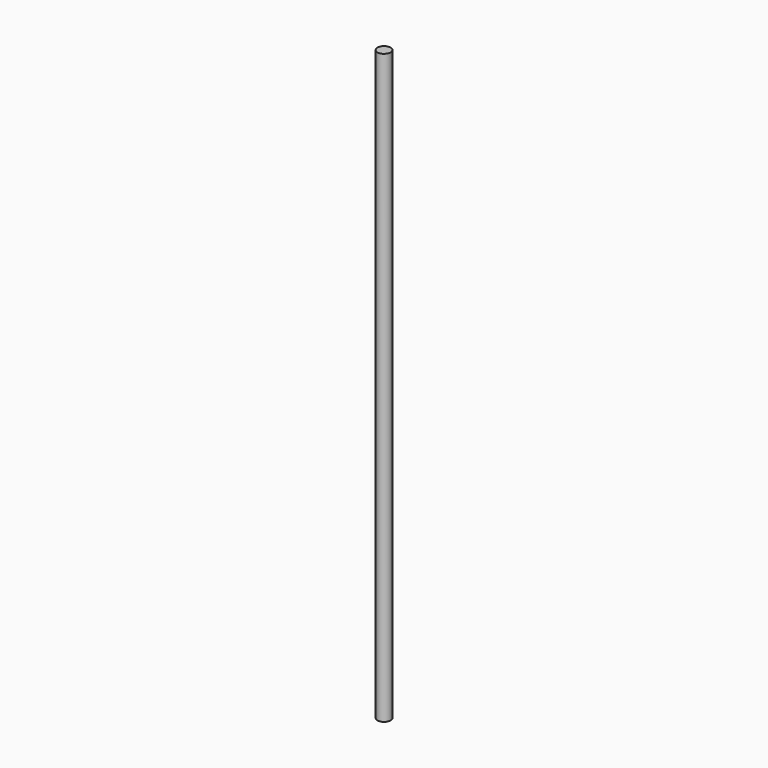
from build123d import *

# Parameters (mm, degrees)
CYLINDER_R     = 2.9
CYLINDER_DEPTH = 260


with BuildPart() as part:
    # Cylinder → Cylinder (new body)
    with BuildSketch(Plane.XY):
        Circle(CYLINDER_R)
    extrude(amount=CYLINDER_DEPTH)


solid = part.part
